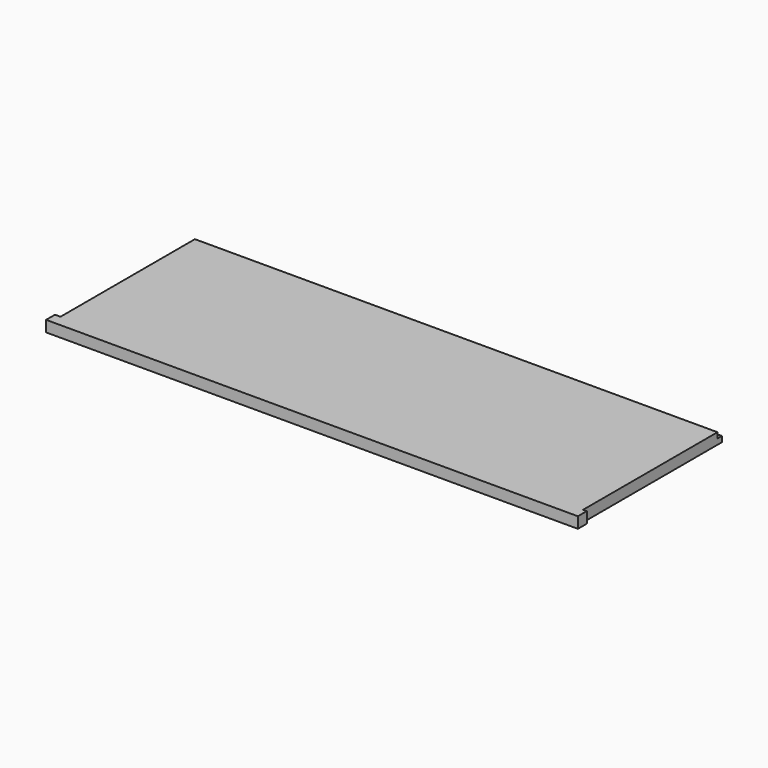
from build123d import *

# Parameters (mm, degrees)
F0_W     = 898.525
F0_H     = 317.5
F1_DEPTH = 19.05
F2_W     = 9.525
F2_H     = 9.525
F3_DEPTH = 898.526
F4_W     = 19.05
F4_H     = 19.05
F5_DEPTH = 9.525
F6_W     = 19.05
F6_H     = 19.05
F7_DEPTH = 6.35


with BuildPart() as f1:
    # F0 (on Top) → F1 (new body)
    with BuildSketch(Plane.XY):
        Rectangle(F0_W, F0_H)
    extrude(amount=F1_DEPTH)

    # F2 (on face) → F3 (cut, through all)
    with BuildSketch(Plane.YZ.offset(449.2625)):
        with Locations((153.9875, 14.2875)):
            Rectangle(F2_W, F2_H)
    extrude(amount=-F3_DEPTH, mode=Mode.SUBTRACT)

    # F4 (on face) → F5 (join)
    with BuildSketch(Plane(origin=(-449.2625, 0, 0), x_dir=(0, -1, 0), z_dir=(-1, 0, 0))):
        with Locations((149.225, 9.525)):
            Rectangle(F4_W, F4_H)
    extrude(amount=F5_DEPTH)

    # F6 (on face) → F7 (join)
    with BuildSketch(Plane.YZ.offset(449.2625)):
        with Locations((-149.225, 9.525)):
            Rectangle(F6_W, F6_H)
    extrude(amount=F7_DEPTH)


solid = f1.part
